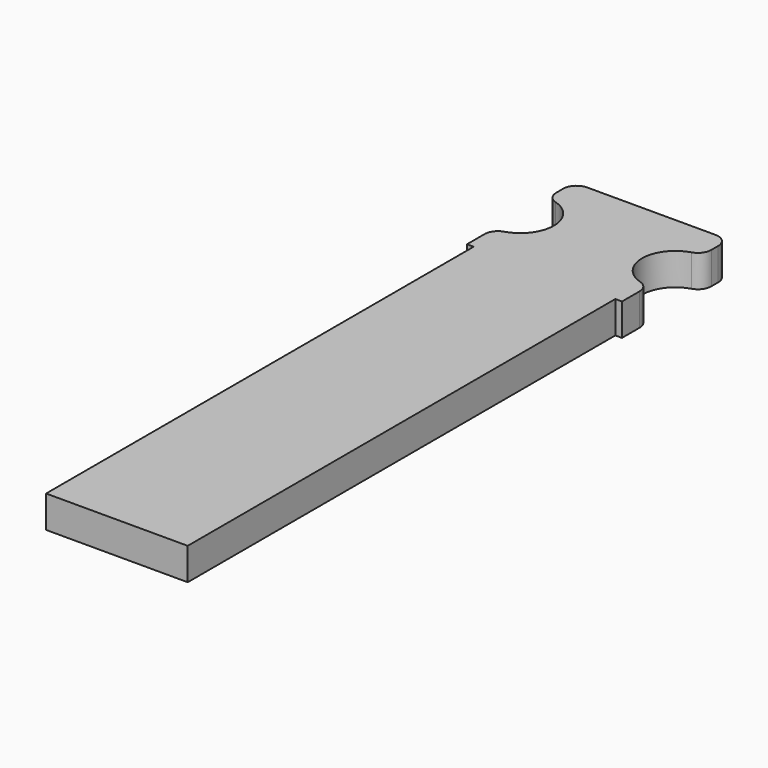
from build123d import *

# Parameters (mm, degrees)
F0_W     = 11.6
F0_H     = 50
F1_DEPTH = 2.4
F2_R     = 2.5
F2_W     = 0.5
F2_H     = 40
F3_DEPTH = 25
F4_R     = 1


with BuildPart() as f1:
    # F0 (on Top) → F1 (new body)
    with BuildSketch(Plane.XY):
        Rectangle(F0_W, F0_H)
    extrude(amount=F1_DEPTH)

    # F2 (on face) → F3 (cut)
    with BuildSketch(Plane.XY.offset(2.4)):
        with Locations((5.8, 20)):
            Circle(F2_R)
        with Locations((5.55, -5)):
            Rectangle(F2_W, F2_H)
        with Locations((-5.8, 20)):
            Circle(F2_R)
        with Locations((-5.55, -5)):
            Rectangle(F2_W, F2_H)
    extrude(amount=-F3_DEPTH, mode=Mode.SUBTRACT)

    # F4
    f4_edges = [f1.edges().sort_by_distance(p)[0] for p in [
        (5.8, 22.5, 1.2),
        (5.8, 17.5, 1.2),
        (-5.8, 22.5, 1.2),
        (-5.8, 17.5, 1.2),
        (5.8, 25, 1.2),
        (-5.8, 25, 1.2),
    ]]
    fillet(f4_edges, radius=F4_R)


solid = f1.part
